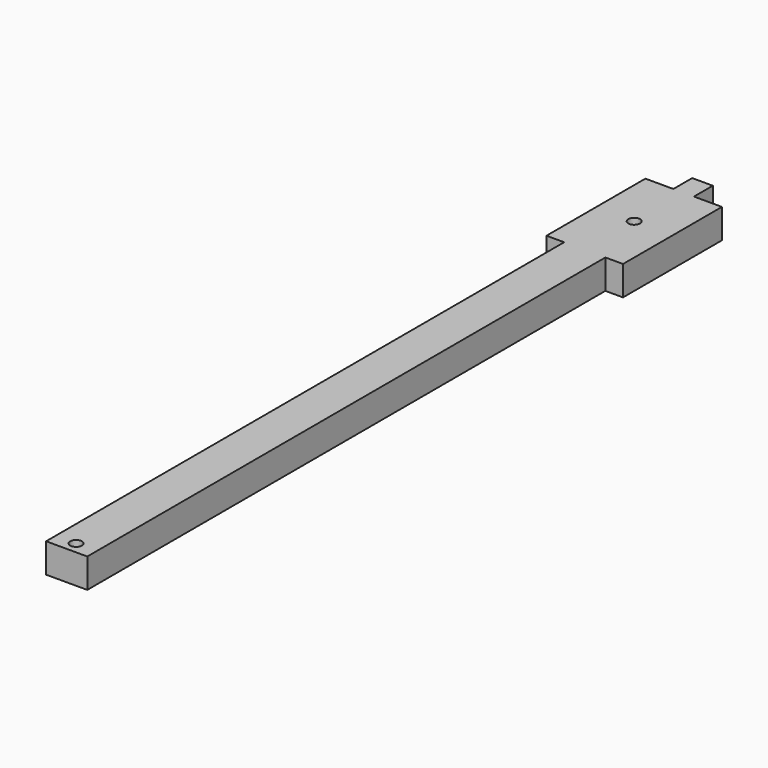
from build123d import *

# Parameters (mm, degrees)
F0_R     = 0.254
F0_W     = 0.889
F0_H     = 1.016
F1_DEPTH = 1.27


with BuildPart() as f1:
    # F0 (on Top) → F1 (new body)
    with BuildSketch(Plane.XY):
        Polygon((0.889, -2.667), (1.651, -2.667), (1.651, 2.667), (0.4445, 2.667), (-0.4445, 2.667), (-1.651, 2.667), (-1.651, -2.667), (-0.889, -2.667), (-0.889, -30.607), (0.889, -30.607), align=None)
        with Locations((0, -30.099)):
            Circle(F0_R, mode=Mode.SUBTRACT)
        Circle(F0_R, mode=Mode.SUBTRACT)
        with Locations((0, 3.175)):
            Rectangle(F0_W, F0_H)
    extrude(amount=F1_DEPTH)


solid = f1.part
